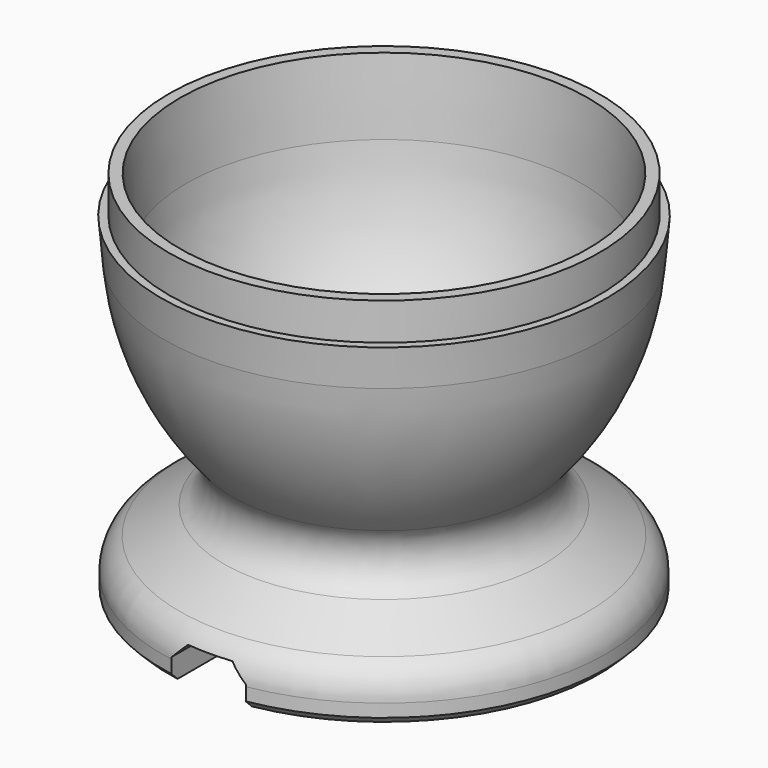
from build123d import *

# Parameters (mm, degrees)
F2_W     = 10
F2_H     = 10.684083
F3_DEPTH = 40.5
F4_SIZE  = 2


with BuildPart() as f1:
    # F0 (on Front) → F1 (revolve)
    with BuildSketch(Plane.XZ):
        with BuildLine():
            ThreePointArc((-6.349949, -3.617726), (-20.37432, 8.030333), (-26.638337, 25.151149))
            Line((-26.638337, 25.151149), (-27.5, 35))
            Line((-27.5, 35), (-29, 35))
            Line((-29, 35), (-29, 30))
            Line((-29, 30), (-30.074017, 30))
            Line((-30.074017, 30), (-29.626922, 24.889682))
            ThreePointArc((-29.626922, 24.889682), (-26.737592, 13.322956), (-20.406444, 3.220781))
            ThreePointArc((-20.406444, 3.220781), (-19.232291, -0.826148), (-21.56813, -4.333301))
            Line((-21.56813, -4.333301), (-27.557738, -7.991337))
            ThreePointArc((-27.557738, -7.991337), (-29.31231, -9.812077), (-29.951671, -12.258469))
            Line((-29.951671, -12.258469), (-29.951671, -14))
            Line((-29.951671, -14), (-28.951671, -15))
            Line((-28.951671, -15), (0, -15))
            Line((0, -15), (0, -4.52649))
            Line((0, -4.52649), (-2.184685, -4.52649))
            ThreePointArc((-2.184685, -4.52649), (-4.316309, -4.296658), (-6.349949, -3.617726))
        make_face()
    revolve(axis=Axis((0, 0, -9.763245), (0, 0, -1)))

    # F2 (on Front) → F3 (cut, symmetric)
    with BuildSketch(Plane.XZ):
        with Locations((0, -15.342041)):
            Rectangle(F2_W, F2_H)
    extrude(amount=F3_DEPTH, both=True, mode=Mode.SUBTRACT)

    # F4
    f4_edges = [f1.edges().sort_by_distance(p)[0] for p in [
        (-5, 0, -10),
        (5, 0, -10),
    ]]
    chamfer(f4_edges, length=F4_SIZE)


solid = f1.part
